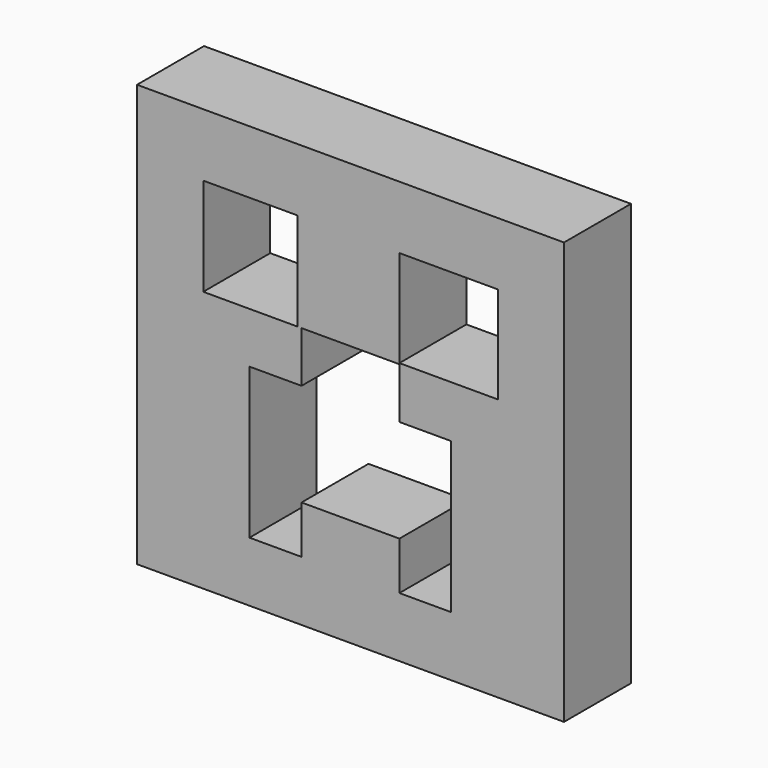
from build123d import *

# Parameters (mm, degrees)
F0_W     = 124.456852
F0_H     = 123.028823
F2_DEPTH = 24.4
F1_W     = 27.430565
F1_H     = 28.527785
F1_W_2   = 28.79486
F1_H_2   = 28.230243
F3_DEPTH = 25


with BuildPart() as f2:
    # F0 (on Front) → F2 (new body)
    with BuildSketch(Plane.XZ):
        with Locations((0, 2.16407)):
            Rectangle(F0_W, F0_H)
    extrude(amount=F2_DEPTH)

    # F1 (on Front) → F3 (cut)
    with BuildSketch(Plane.XZ):
        with Locations((-29.206698, 31.088812)):
            Rectangle(F1_W, F1_H)
        with Locations((28.647749, 31.243527)):
            Rectangle(F1_W_2, F1_H_2)
        Polygon((-29.451821, 2.010801), (-29.451821, -41.444603), (-29.451821, -41.884881), (-14.279907, -41.884881), (-14.279907, -27.918119), (14.250319, -27.918119), (14.250319, -41.884881), (29.332664, -41.884881), (29.332664, 2.010801), (14.250319, 2.010801), (14.250319, 16.82492), (-14.279907, 16.82492), (-14.279907, 2.010801), align=None)
    extrude(amount=F3_DEPTH, mode=Mode.SUBTRACT)


solid = f2.part
